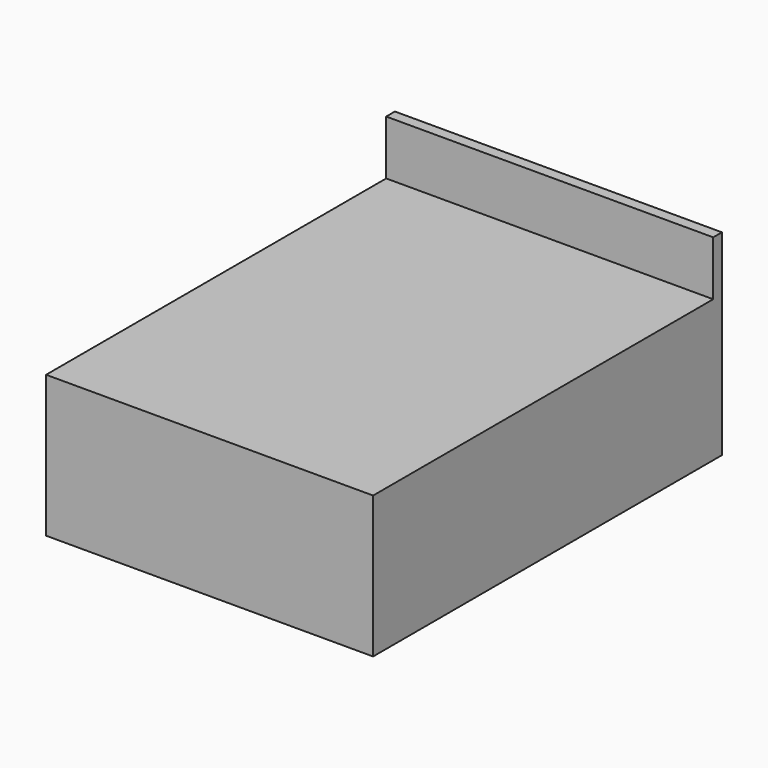
from build123d import *

# Parameters (mm, degrees)
F0_W     = 1524
F0_H     = 1981.2
F1_DEPTH = 660.4
F2_W     = 50.8
F2_H     = 914.4
F3_DEPTH = 1524


with BuildPart() as f1:
    # F0 (on Top) → F1 (new body)
    with BuildSketch(Plane.XY):
        with Locations((762, 990.6)):
            Rectangle(F0_W, F0_H)
    extrude(amount=F1_DEPTH)

    # F2 (on Right) → F3 (join, through all)
    with BuildSketch(Plane.YZ):
        with Locations((2006.6, 457.2)):
            Rectangle(F2_W, F2_H)
    extrude(amount=F3_DEPTH)


solid = f1.part
